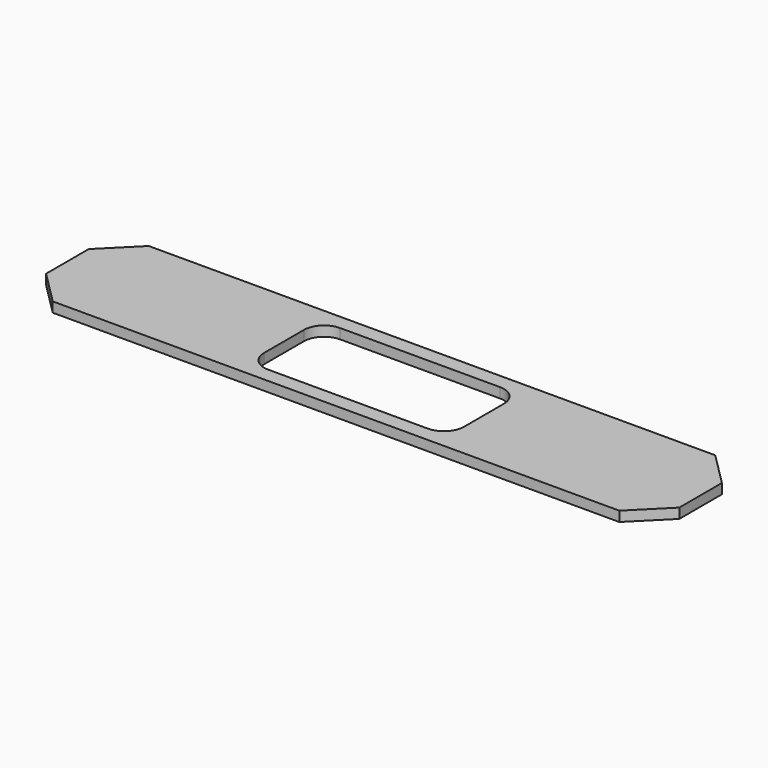
from build123d import *

# Parameters (mm, degrees)
SKETCH_W     = 190
SKETCH_H     = 36
SKETCH_W_2   = 60
SKETCH_H_2   = 27
PAD_DEPTH    = 3
CHAMFER_SIZE = 10
FILLET_R     = 6


with BuildPart() as part:
    # Sketch → Pad (new body)
    with BuildSketch(Plane.XY):
        Rectangle(SKETCH_W, SKETCH_H)
        Rectangle(SKETCH_W_2, SKETCH_H_2, mode=Mode.SUBTRACT)
    extrude(amount=PAD_DEPTH)

    # Chamfer
    chamfer_edges = [part.edges().sort_by_distance(p)[0] for p in [
        (-95, -18, 1.5),
        (-95, 18, 1.5),
        (95, -18, 1.5),
        (95, 18, 1.5),
    ]]
    chamfer(chamfer_edges, length=CHAMFER_SIZE)

    # Fillet
    fillet_edges = [part.edges().sort_by_distance(p)[0] for p in [
        (-30, -13.5, 1.5),
        (-30, 13.5, 1.5),
        (30, 13.5, 1.5),
        (30, -13.5, 1.5),
    ]]
    fillet(fillet_edges, radius=FILLET_R)


solid = part.part
